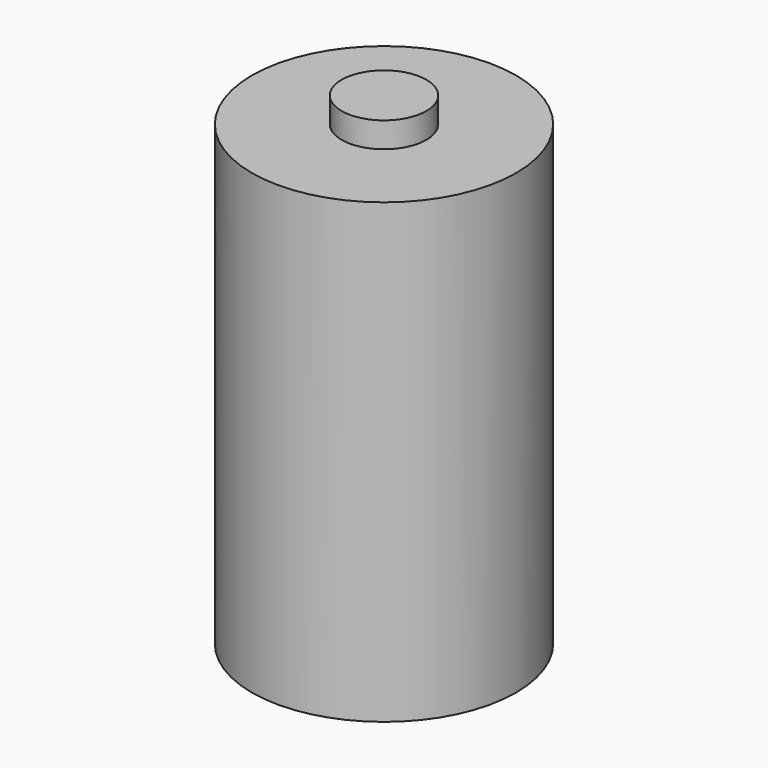
from build123d import *

# Parameters (mm, degrees)
F0_R     = 7.8
F1_DEPTH = 13.5
F2_R     = 2.5
F3_DEPTH = 1.5


with BuildPart() as f1:
    # F0 (on Top) → F1 (new body, symmetric)
    with BuildSketch(Plane.XY):
        Circle(F0_R)
    extrude(amount=F1_DEPTH, both=True)

    # F2 (on face) → F3 (join)
    with BuildSketch(Plane.XY.offset(13.5)):
        Circle(F2_R)
    extrude(amount=F3_DEPTH)


solid = f1.part
